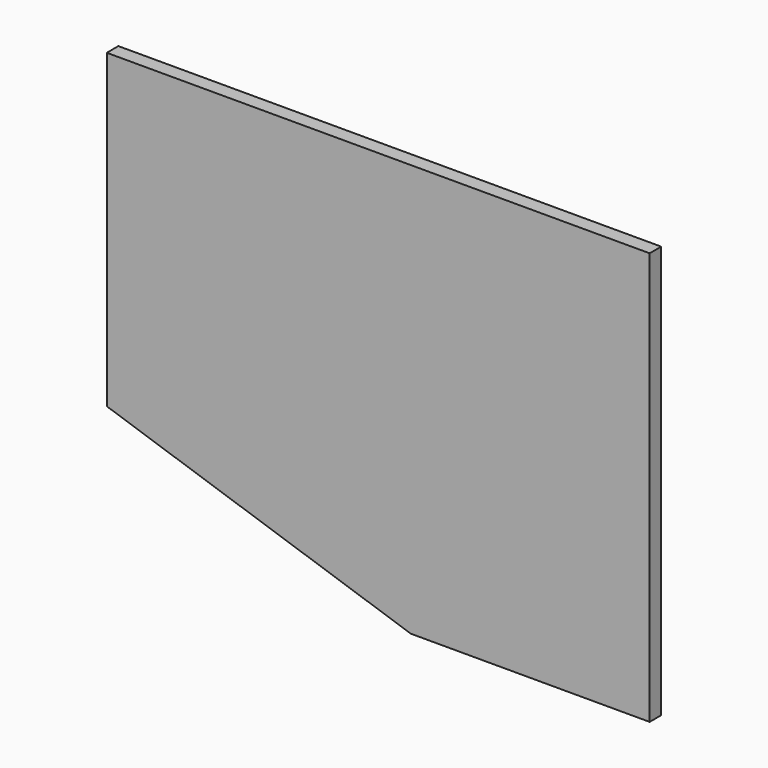
from build123d import *

# Parameters (mm, degrees)
F1_DEPTH = 6.35
F3_DEPTH = 25.4


with BuildPart() as f1:
    # F0 (on Front) → F1 (new body)
    with BuildSketch(Plane.XZ):
        with BuildLine():
            ThreePointArc((119.0625, 77.7875), (115.342756, 86.767756), (106.3625, 90.4875))
            Line((106.3625, 90.4875), (-106.3625, 90.4875))
            ThreePointArc((-106.3625, 90.4875), (-115.342756, 86.767756), (-119.0625, 77.7875))
            Line((-119.0625, 77.7875), (-119.0625, -77.7875))
            ThreePointArc((-119.0625, -77.7875), (-115.342756, -86.767756), (-106.3625, -90.4875))
            Line((-106.3625, -90.4875), (106.3625, -90.4875))
            ThreePointArc((106.3625, -90.4875), (115.342756, -86.767756), (119.0625, -77.7875))
            Line((119.0625, -77.7875), (119.0625, 77.7875))
        make_face()
        with BuildLine():
            Line((119.0625, 90.4875), (106.3625, 90.4875))
            ThreePointArc((106.3625, 90.4875), (115.342756, 86.767756), (119.0625, 77.7875))
            Line((119.0625, 77.7875), (119.0625, 90.4875))
        make_face()
        with BuildLine():
            ThreePointArc((-119.0625, 77.7875), (-115.342756, 86.767756), (-106.3625, 90.4875))
            Line((-106.3625, 90.4875), (-119.0625, 90.4875))
            Line((-119.0625, 90.4875), (-119.0625, 77.7875))
        make_face()
        with BuildLine():
            Line((119.0625, -90.4875), (119.0625, -77.7875))
            ThreePointArc((119.0625, -77.7875), (115.342756, -86.767756), (106.3625, -90.4875))
            Line((106.3625, -90.4875), (119.0625, -90.4875))
        make_face()
        with BuildLine():
            ThreePointArc((-106.3625, -90.4875), (-115.342756, -86.767756), (-119.0625, -77.7875))
            Line((-119.0625, -77.7875), (-119.0625, -90.4875))
            Line((-119.0625, -90.4875), (-106.3625, -90.4875))
        make_face()
    extrude(amount=F1_DEPTH)

    # F2 (on face) → F3 (cut)
    with BuildSketch(Plane(origin=(0, 0, 0), x_dir=(-1, 0, 0), z_dir=(0, 1, 0))):
        Polygon((-14.2875, -90.4875), (119.0625, -90.4875), (119.0625, -46.0375), align=None)
    extrude(amount=-F3_DEPTH, mode=Mode.SUBTRACT)


solid = f1.part
